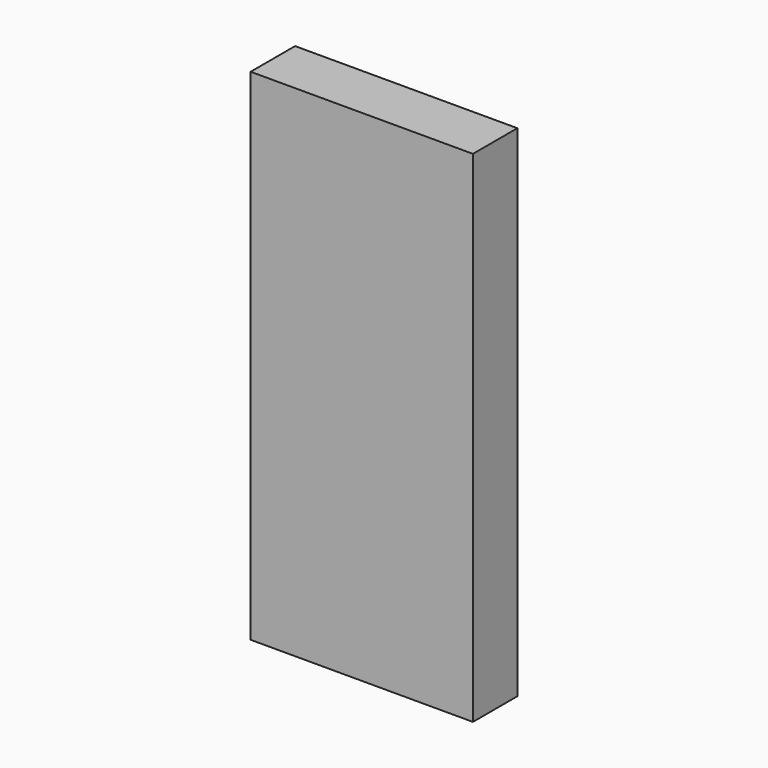
from build123d import *

# Parameters (mm, degrees)
BOX_W     = 40
BOX_H     = 10
BOX_DEPTH = 90


with BuildPart() as part:
    # Box → Box (new body)
    with BuildSketch(Plane.XY):
        with Locations((20, 5)):
            Rectangle(BOX_W, BOX_H)
    extrude(amount=BOX_DEPTH)


solid = part.part
